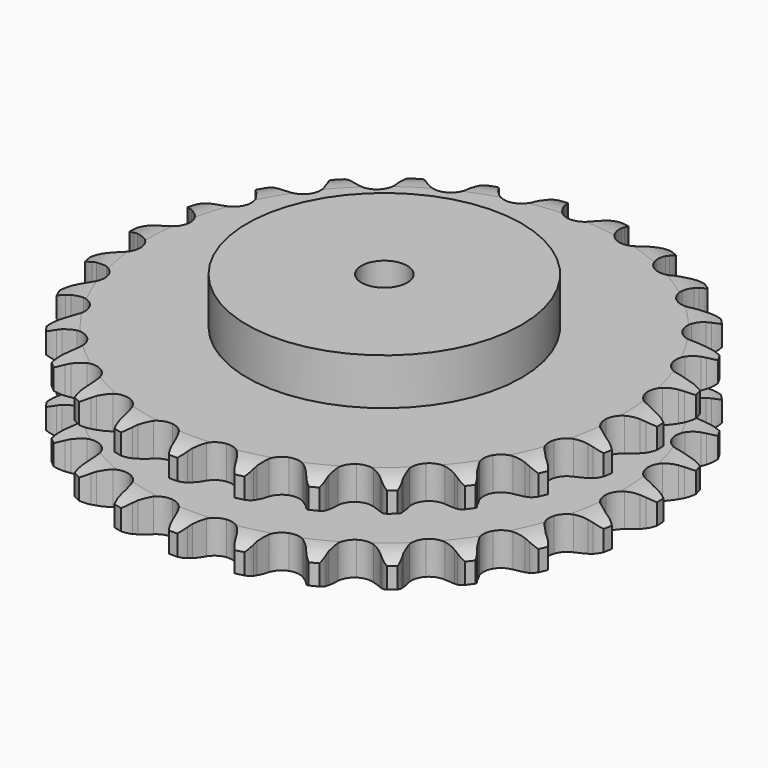
from build123d import *

# Parameters (mm, degrees)
PAD_DEPTH         = 54.6
SKETCH001_R       = 75
PAD001_DEPTH      = 80
SKETCH002_R       = 12.5
POCKET_DEPTH      = 0.001
POCKET_DEPTH_BACK = 80.001


with BuildPart() as part:
    # Sprocket → Pad (new body)
    with BuildSketch(Plane.XY):
        with BuildLine():
            ThreePointArc((-17.076624, 146.099855), (-14.040427, 143.064591), (-11.945931, 139.317003))
            Line((-11.945931, 139.317003), (-11.018245, 136.937157))
            ThreePointArc((-11.018245, 136.937157), (-9.544654, 133.816621), (-7.652976, 130.930314))
            ThreePointArc((-7.652976, 130.930314), (-4.271597, 128.134651), (0, 127.133194))
            ThreePointArc((0, 127.133194), (4.271597, 128.134651), (7.652976, 130.930314))
            ThreePointArc((7.652976, 130.930314), (9.544654, 133.816621), (11.018245, 136.937157))
            Line((11.018245, 136.937157), (11.945931, 139.317003))
            ThreePointArc((11.945931, 139.317003), (14.040427, 143.064591), (17.076624, 146.099855))
            ThreePointArc((17.076624, 146.099855), (19.331, 142.446211), (20.504785, 138.316617))
            Line((20.504785, 138.316617), (20.858635, 135.78698))
            ThreePointArc((20.858635, 135.78698), (21.572859, 132.410725), (22.74792, 129.165968))
            ThreePointArc((22.74792, 129.165968), (25.393429, 125.665863), (29.318932, 123.706302))
            ThreePointArc((29.318932, 123.706302), (33.70634, 123.695667), (37.641297, 125.636173))
            Line((37.641297, 125.636173), (42.301128, 130.705016))
            ThreePointArc((42.301128, 130.705016), (42.999862, 131.774557), (43.752639, 132.806774))
            ThreePointArc((43.752639, 132.806774), (46.65493, 135.970321), (50.309267, 138.223574))
            ThreePointArc((50.309267, 138.223574), (51.660288, 134.14852), (51.850083, 129.859546))
            Line((51.850083, 129.859546), (51.611021, 127.316492))
            ThreePointArc((51.611021, 127.316492), (51.527375, 123.866533), (51.922469, 120.438252))
            ThreePointArc((51.922469, 120.438252), (53.689488, 116.422395), (57.057273, 113.610371))
            ThreePointArc((57.057273, 113.610371), (61.323965, 112.588217), (65.600367, 113.568953))
            Line((65.600367, 113.568953), (71.303547, 117.426534))
            ThreePointArc((71.303547, 117.426534), (72.230099, 118.306106), (73.200631, 119.136898))
            ThreePointArc((73.200631, 119.136898), (76.754254, 121.545856), (80.829724, 122.895624))
            ThreePointArc((80.829724, 122.895624), (81.204556, 118.618847), (80.40013, 114.401713))
            Line((80.40013, 114.401713), (79.581043, 111.982339))
            ThreePointArc((79.581043, 111.982339), (78.704036, 108.644664), (78.297864, 105.217678))
            ThreePointArc((78.297864, 105.217678), (79.091133, 100.902567), (81.719642, 97.389676))
            ThreePointArc((81.719642, 97.389676), (85.635599, 95.411108), (90.022903, 95.379202))
            Line((90.022903, 95.379202), (96.461973, 97.817557))
            ThreePointArc((96.461973, 97.817557), (97.566393, 98.459742), (98.702357, 99.04432))
            ThreePointArc((98.702357, 99.04432), (102.715737, 100.568822), (106.992629, 100.94234))
            ThreePointArc((106.992629, 100.94234), (106.371065, 96.694401), (104.615784, 92.776454))
            Line((104.615784, 92.776454), (103.26083, 90.611189))
            ThreePointArc((103.26083, 90.611189), (101.637743, 87.565733), (100.452201, 84.324791))
            ThreePointArc((100.452201, 84.324791), (100.228954, 79.943055), (101.976483, 75.918679))
            ThreePointArc((101.976483, 75.918679), (105.330596, 73.090361), (109.592282, 72.047533))
            Line((109.592282, 72.047533), (116.420109, 72.93521))
            ThreePointArc((116.420109, 72.93521), (117.642858, 73.305388), (118.883015, 73.612237))
            ThreePointArc((118.883015, 73.612237), (123.139788, 74.170098), (127.387535, 73.547228))
            ThreePointArc((127.387535, 73.547228), (125.803083, 69.557135), (123.191575, 66.149592))
            Line((123.191575, 66.149592), (121.373799, 64.355167))
            ThreePointArc((121.373799, 64.355167), (119.092132, 61.766111), (117.191134, 58.885934))
            ThreePointArc((117.191134, 58.885934), (115.963407, 54.673792), (116.735746, 50.354886))
            ThreePointArc((116.735746, 50.354886), (119.347193, 46.829293), (123.253512, 44.831763))
            Line((123.253512, 44.831763), (130.102007, 44.120907))
            ThreePointArc((130.102007, 44.120907), (131.377165, 44.199122), (132.654658, 44.2117))
            ThreePointArc((132.654658, 44.2117), (136.92534, 43.772844), (140.914945, 42.187165))
            ThreePointArc((140.914945, 42.187165), (138.453024, 38.670026), (135.126076, 35.956589))
            Line((135.126076, 35.956589), (132.943476, 34.62974))
            ThreePointArc((132.943476, 34.62974), (130.126234, 32.636662), (127.612263, 30.27252))
            ThreePointArc((127.612263, 30.27252), (125.446242, 26.45705), (125.201755, 22.076447))
            ThreePointArc((125.201755, 22.076447), (126.929752, 18.043647), (130.270114, 15.199101))
            Line((130.270114, 15.199101), (136.770072, 12.928035))
            ThreePointArc((136.770072, 12.928035), (138.028896, 12.71007), (139.274854, 12.427698))
            ThreePointArc((139.274854, 12.427698), (143.329213, 11.015785), (146.845595, 8.552782))
            ThreePointArc((146.845595, 8.552782), (143.638926, 5.698206), (139.775895, 3.825157))
            Line((139.775895, 3.825157), (137.346135, 3.037416))
            ThreePointArc((137.346135, 3.037416), (134.145196, 1.747762), (131.153782, 0.027107))
            ThreePointArc((131.153782, 0.027107), (128.166238, -3.185997), (126.918104, -7.392138))
            ThreePointArc((126.918104, -7.392138), (127.669496, -11.714737), (130.26382, -15.252949))
            Line((130.26382, -15.252949), (136.064827, -18.961791))
            ThreePointArc((136.064827, -18.961791), (137.239453, -19.464186), (138.386707, -20.026283))
            ThreePointArc((138.386707, -20.026283), (142.00617, -22.335139), (144.85976, -25.542684))
            ThreePointArc((144.85976, -25.542684), (141.081217, -27.580806), (136.89036, -28.512491))
            Line((136.89036, -28.512491), (134.344428, -28.718656))
            ThreePointArc((134.344428, -28.718656), (130.932357, -29.235361), (127.624766, -30.219767))
            ThreePointArc((127.624766, -30.219767), (123.976759, -32.657287), (121.792266, -36.462211))
            ThreePointArc((121.792266, -36.462211), (121.526544, -40.841577), (123.23497, -44.882708))
            Line((123.23497, -44.882708), (128.024292, -49.829382))
            ThreePointArc((128.024292, -49.829382), (129.051395, -50.589122), (130.038097, -51.400643))
            ThreePointArc((130.038097, -51.400643), (133.027538, -54.481969), (135.064498, -58.261137))
            ThreePointArc((135.064498, -58.261137), (130.917783, -59.372929), (126.625029, -59.313022))
            Line((126.625029, -59.313022), (124.100179, -58.926499))
            ThreePointArc((124.100179, -58.926499), (120.66092, -58.642397), (117.215466, -58.837486))
            ThreePointArc((117.215466, -58.837486), (113.103661, -60.368014), (110.100575, -63.566597))
            ThreePointArc((110.100575, -63.566597), (108.832064, -67.766637), (109.56249, -72.092828))
            Line((109.56249, -72.092828), (113.081934, -78.010658))
            ThreePointArc((113.081934, -78.010658), (113.906144, -78.986786), (114.679099, -80.003981))
            ThreePointArc((114.679099, -80.003981), (116.877357, -83.691661), (117.987874, -87.838718))
            ThreePointArc((117.987874, -87.838718), (113.696538, -87.964243), (109.533311, -86.915973))
            Line((109.533311, -86.915973), (107.165657, -85.957598))
            ThreePointArc((107.165657, -85.957598), (103.884622, -84.888007), (100.48705, -84.28326))
            ThreePointArc((100.48705, -84.28326), (96.133115, -84.824286), (92.473334, -87.244091))
            ThreePointArc((92.473334, -87.244091), (90.27042, -91.03838), (89.983469, -95.416406))
            Line((89.983469, -95.416406), (92.0433, -101.98636))
            ThreePointArc((92.0433, -101.98636), (92.620183, -103.126251), (93.137721, -104.294284))
            ThreePointArc((93.137721, -104.294284), (94.426287, -108.389515), (94.550493, -112.68089))
            ThreePointArc((94.550493, -112.68089), (90.345882, -111.813381), (86.536624, -109.833262))
            Line((86.536624, -109.833262), (84.453806, -108.354701))
            ThreePointArc((84.453806, -108.354701), (81.507877, -106.557282), (78.341351, -105.185303))
            ThreePointArc((78.341351, -105.185303), (73.980008, -104.707658), (69.860831, -106.218234))
            ThreePointArc((69.860831, -106.218234), (66.842274, -109.40222), (65.553415, -113.59606))
            Line((65.553415, -113.59606), (66.042588, -120.46395))
            ThreePointArc((66.042588, -120.46395), (66.341043, -121.706154), (66.575265, -122.962054))
            ThreePointArc((66.575265, -122.962054), (66.884672, -127.244062), (66.015871, -131.448406))
            ThreePointArc((66.015871, -131.448406), (62.124657, -129.634631), (58.874724, -126.829411))
            Line((58.874724, -126.829411), (57.189029, -124.910374))
            ThreePointArc((57.189029, -124.910374), (54.737021, -122.482027), (51.97225, -120.416778))
            ThreePointArc((51.97225, -120.416778), (47.83862, -118.946213), (43.482113, -119.466124))
            ThreePointArc((43.482113, -119.466124), (39.810643, -121.868158), (37.58936, -125.651722))
            Line((37.58936, -125.651722), (36.481503, -132.447297))
            ThreePointArc((36.481503, -132.447297), (36.485441, -133.724846), (36.423718, -135.000909))
            ThreePointArc((36.423718, -135.000909), (35.737287, -139.238849), (33.922316, -143.129505))
            ThreePointArc((33.922316, -143.129505), (30.554275, -140.467245), (28.038874, -136.988154))
            Line((28.038874, -136.988154), (26.841177, -134.732097))
            ThreePointArc((26.841177, -134.732097), (25.015278, -131.803734), (22.801311, -129.156554))
            ThreePointArc((22.801311, -129.156554), (19.118239, -126.772348), (14.759263, -126.273564))
            ThreePointArc((14.759263, -126.273564), (10.632811, -127.764152), (7.598853, -130.933466))
            Line((7.598853, -130.933466), (4.95369, -137.290377))
            ThreePointArc((4.95369, -137.290377), (4.6629, -138.534397), (4.30856, -139.76183))
            ThreePointArc((4.30856, -139.76183), (2.663295, -143.727233), (0, -147.094455))
            ThreePointArc((0, -147.094455), (-2.663295, -143.727233), (-4.30856, -139.76183))
            Line((-4.30856, -139.76183), (-4.95369, -137.290377))
            ThreePointArc((-4.95369, -137.290377), (-6.055045, -134.019867), (-7.598853, -130.933466))
            ThreePointArc((-7.598853, -130.933466), (-10.632811, -127.764152), (-14.759263, -126.273564))
            ThreePointArc((-14.759263, -126.273564), (-19.118239, -126.772348), (-22.801311, -129.156554))
            Line((-22.801311, -129.156554), (-26.841177, -134.732097))
            ThreePointArc((-26.841177, -134.732097), (-27.41102, -135.875523), (-28.038874, -136.988154))
            ThreePointArc((-28.038874, -136.988154), (-30.554275, -140.467245), (-33.922316, -143.129505))
            ThreePointArc((-33.922316, -143.129505), (-35.737287, -139.238849), (-36.423718, -135.000909))
            Line((-36.423718, -135.000909), (-36.481503, -132.447297))
            ThreePointArc((-36.481503, -132.447297), (-36.798938, -129.010955), (-37.58936, -125.651722))
            ThreePointArc((-37.58936, -125.651722), (-39.810643, -121.868158), (-43.482113, -119.466124))
            ThreePointArc((-43.482113, -119.466124), (-47.83862, -118.946213), (-51.97225, -120.416778))
            Line((-51.97225, -120.416778), (-57.189029, -124.910374))
            ThreePointArc((-57.189029, -124.910374), (-58.007205, -125.891565), (-58.874724, -126.829411))
            ThreePointArc((-58.874724, -126.829411), (-62.124657, -129.634631), (-66.015871, -131.448406))
            ThreePointArc((-66.015871, -131.448406), (-66.884672, -127.244062), (-66.575265, -122.962054))
            Line((-66.575265, -122.962054), (-66.042588, -120.46395))
            ThreePointArc((-66.042588, -120.46395), (-65.558992, -117.047029), (-65.553415, -113.59606))
            ThreePointArc((-65.553415, -113.59606), (-66.842274, -109.40222), (-69.860831, -106.218234))
            ThreePointArc((-69.860831, -106.218234), (-73.980008, -104.707658), (-78.341351, -105.185303))
            Line((-78.341351, -105.185303), (-84.453806, -108.354701))
            ThreePointArc((-84.453806, -108.354701), (-85.476206, -109.120759), (-86.536624, -109.833262))
            ThreePointArc((-86.536624, -109.833262), (-90.345882, -111.813381), (-94.550493, -112.68089))
            ThreePointArc((-94.550493, -112.68089), (-94.426287, -108.389515), (-93.137721, -104.294284))
            Line((-93.137721, -104.294284), (-92.0433, -101.98636))
            ThreePointArc((-92.0433, -101.98636), (-90.784743, -98.773067), (-89.983469, -95.416406))
            ThreePointArc((-89.983469, -95.416406), (-90.27042, -91.03838), (-92.473334, -87.244091))
            ThreePointArc((-92.473334, -87.244091), (-96.133115, -84.824286), (-100.48705, -84.28326))
            Line((-100.48705, -84.28326), (-107.165657, -85.957598))
            ThreePointArc((-107.165657, -85.957598), (-108.337163, -86.467226), (-109.533311, -86.915973))
            ThreePointArc((-109.533311, -86.915973), (-113.696538, -87.964243), (-117.987874, -87.838718))
            ThreePointArc((-117.987874, -87.838718), (-116.877357, -83.691661), (-114.679099, -80.003981))
            Line((-114.679099, -80.003981), (-113.081934, -78.010658))
            ThreePointArc((-113.081934, -78.010658), (-111.116266, -75.174224), (-109.56249, -72.092828))
            ThreePointArc((-109.56249, -72.092828), (-108.832064, -67.766637), (-110.100575, -63.566597))
            ThreePointArc((-110.100575, -63.566597), (-113.103661, -60.368014), (-117.215466, -58.837486))
            Line((-117.215466, -58.837486), (-124.100179, -58.926499))
            ThreePointArc((-124.100179, -58.926499), (-125.357635, -59.152221), (-126.625029, -59.313022))
            ThreePointArc((-126.625029, -59.313022), (-130.917783, -59.372929), (-135.064498, -58.261137))
            ThreePointArc((-135.064498, -58.261137), (-133.027538, -54.481969), (-130.038097, -51.400643))
            Line((-130.038097, -51.400643), (-128.024292, -49.829382))
            ThreePointArc((-128.024292, -49.829382), (-125.457481, -47.522718), (-123.23497, -44.882708))
            ThreePointArc((-123.23497, -44.882708), (-121.526544, -40.841577), (-121.792266, -36.462211))
            ThreePointArc((-121.792266, -36.462211), (-123.976759, -32.657287), (-127.624766, -30.219767))
            Line((-127.624766, -30.219767), (-134.344428, -28.718656))
            ThreePointArc((-134.344428, -28.718656), (-135.620045, -28.648305), (-136.89036, -28.512491))
            ThreePointArc((-136.89036, -28.512491), (-141.081217, -27.580806), (-144.85976, -25.542684))
            ThreePointArc((-144.85976, -25.542684), (-142.00617, -22.335139), (-138.386707, -20.026283))
            Line((-138.386707, -20.026283), (-136.064827, -18.961791))
            ThreePointArc((-136.064827, -18.961791), (-133.035252, -17.309251), (-130.26382, -15.252949))
            ThreePointArc((-130.26382, -15.252949), (-127.669496, -11.714737), (-126.918104, -7.392138))
            ThreePointArc((-126.918104, -7.392138), (-128.166238, -3.185997), (-131.153782, 0.027107))
            Line((-131.153782, 0.027107), (-137.346135, 3.037416))
            ThreePointArc((-137.346135, 3.037416), (-138.571143, 3.400048), (-139.775895, 3.825157))
            ThreePointArc((-139.775895, 3.825157), (-143.638926, 5.698206), (-146.845595, 8.552782))
            ThreePointArc((-146.845595, 8.552782), (-143.329213, 11.015785), (-139.274854, 12.427698))
            Line((-139.274854, 12.427698), (-136.770072, 12.928035))
            ThreePointArc((-136.770072, 12.928035), (-133.441057, 13.837363), (-130.270114, 15.199101))
            ThreePointArc((-130.270114, 15.199101), (-126.929752, 18.043647), (-125.201755, 22.076447))
            ThreePointArc((-125.201755, 22.076447), (-125.446242, 26.45705), (-127.612263, 30.27252))
            Line((-127.612263, 30.27252), (-132.943476, 34.62974))
            ThreePointArc((-132.943476, 34.62974), (-134.051834, 35.265104), (-135.126076, 35.956589))
            ThreePointArc((-135.126076, 35.956589), (-138.453024, 38.670026), (-140.914945, 42.187165))
            ThreePointArc((-140.914945, 42.187165), (-136.92534, 43.772844), (-132.654658, 44.2117))
            Line((-132.654658, 44.2117), (-130.102007, 44.120907))
            ThreePointArc((-130.102007, 44.120907), (-126.653021, 44.238), (-123.253512, 44.831763))
            ThreePointArc((-123.253512, 44.831763), (-119.347193, 46.829293), (-116.735746, 50.354886))
            ThreePointArc((-116.735746, 50.354886), (-115.963407, 54.673792), (-117.191134, 58.885934))
            Line((-117.191134, 58.885934), (-121.373799, 64.355167))
            ThreePointArc((-121.373799, 64.355167), (-122.305757, 65.229009), (-123.191575, 66.149592))
            ThreePointArc((-123.191575, 66.149592), (-125.803083, 69.557135), (-127.387535, 73.547228))
            ThreePointArc((-127.387535, 73.547228), (-123.139788, 74.170098), (-118.883015, 73.612237))
            Line((-118.883015, 73.612237), (-116.420109, 72.93521))
            ThreePointArc((-116.420109, 72.93521), (-113.037087, 72.253756), (-109.592282, 72.047533))
            ThreePointArc((-109.592282, 72.047533), (-105.330596, 73.090361), (-101.976483, 75.918679))
            ThreePointArc((-101.976483, 75.918679), (-100.228954, 79.943055), (-100.452201, 84.324791))
            Line((-100.452201, 84.324791), (-103.26083, 90.611189))
            ThreePointArc((-103.26083, 90.611189), (-103.966145, 91.676401), (-104.615784, 92.776454))
            ThreePointArc((-104.615784, 92.776454), (-106.371065, 96.694401), (-106.992629, 100.94234))
            ThreePointArc((-106.992629, 100.94234), (-102.715737, 100.568822), (-98.702357, 99.04432))
            Line((-98.702357, 99.04432), (-96.461973, 97.817557))
            ThreePointArc((-96.461973, 97.817557), (-93.327295, 96.374293), (-90.022903, 95.379202))
            ThreePointArc((-90.022903, 95.379202), (-85.635599, 95.411108), (-81.719642, 97.389676))
            ThreePointArc((-81.719642, 97.389676), (-79.091133, 100.902567), (-78.297864, 105.217678))
            Line((-78.297864, 105.217678), (-79.581043, 111.982339))
            ThreePointArc((-79.581043, 111.982339), (-80.021691, 113.181495), (-80.40013, 114.401713))
            ThreePointArc((-80.40013, 114.401713), (-81.204556, 118.618847), (-80.829724, 122.895624))
            ThreePointArc((-80.829724, 122.895624), (-76.754254, 121.545856), (-73.200631, 119.136898))
            Line((-73.200631, 119.136898), (-71.303547, 117.426534))
            ThreePointArc((-71.303547, 117.426534), (-68.586204, 115.299267), (-65.600367, 113.568953))
            ThreePointArc((-65.600367, 113.568953), (-61.323965, 112.588217), (-57.057273, 113.610371))
            ThreePointArc((-57.057273, 113.610371), (-53.689488, 116.422395), (-51.922469, 120.438252))
            Line((-51.922469, 120.438252), (-51.611021, 127.316492))
            ThreePointArc((-51.611021, 127.316492), (-51.763247, 128.584945), (-51.850083, 129.859546))
            ThreePointArc((-51.850083, 129.859546), (-51.660288, 134.14852), (-50.309267, 138.223574))
            ThreePointArc((-50.309267, 138.223574), (-46.65493, 135.970321), (-43.752639, 132.806774))
            Line((-43.752639, 132.806774), (-42.301128, 130.705016))
            ThreePointArc((-42.301128, 130.705016), (-40.147614, 128.008428), (-37.641297, 125.636173))
            ThreePointArc((-37.641297, 125.636173), (-33.70634, 123.695667), (-29.318932, 123.706302))
            ThreePointArc((-29.318932, 123.706302), (-25.393429, 125.665863), (-22.74792, 129.165968))
            Line((-22.74792, 129.165968), (-20.858635, 135.78698))
            ThreePointArc((-20.858635, 135.78698), (-20.714233, 137.056348), (-20.504785, 138.316617))
            ThreePointArc((-20.504785, 138.316617), (-19.331, 142.446211), (-17.076624, 146.099855))
        make_face()
    extrude(amount=PAD_DEPTH)

    # Sketch → Groove (revolve, cut)
    with BuildSketch(Plane.XZ):
        with BuildLine():
            ThreePointArc((129.748368, 0), (137.231683, 0.887302), (144.3, 3.5))
            Line((144.3, 3.5), (144.3, 14.7))
            ThreePointArc((144.3, 14.7), (137.231683, 17.312698), (129.748368, 18.2))
            Line((75, 18.2), (129.748368, 18.2))
            Line((75, 36.4), (75, 18.2))
            Line((129.748368, 36.4), (75, 36.4))
            ThreePointArc((129.748368, 36.4), (137.231683, 37.287302), (144.3, 39.9))
            Line((144.3, 39.9), (144.3, 51.1))
            ThreePointArc((144.3, 51.1), (137.231683, 53.712698), (129.748368, 54.6))
            Line((129.748368, 54.6), (154.3, 54.6))
            Line((154.3, 54.6), (154.3, 0))
            Line((129.748368, 0), (154.3, 0))
        make_face()
    revolve(axis=Axis((0, 0, 0), (0, 0, 1)), mode=Mode.SUBTRACT)

    # Sketch001 → Pad001 (join)
    with BuildSketch(Plane.XY):
        Circle(SKETCH001_R)
    extrude(amount=PAD001_DEPTH)

    # Sketch002 → Pocket (cut, two sides)
    with BuildSketch(Plane.XY) as pocket_sk:
        Circle(SKETCH002_R)
    extrude(amount=-POCKET_DEPTH, mode=Mode.SUBTRACT)
    extrude(pocket_sk.sketch, amount=POCKET_DEPTH_BACK, mode=Mode.SUBTRACT)


solid = part.part
